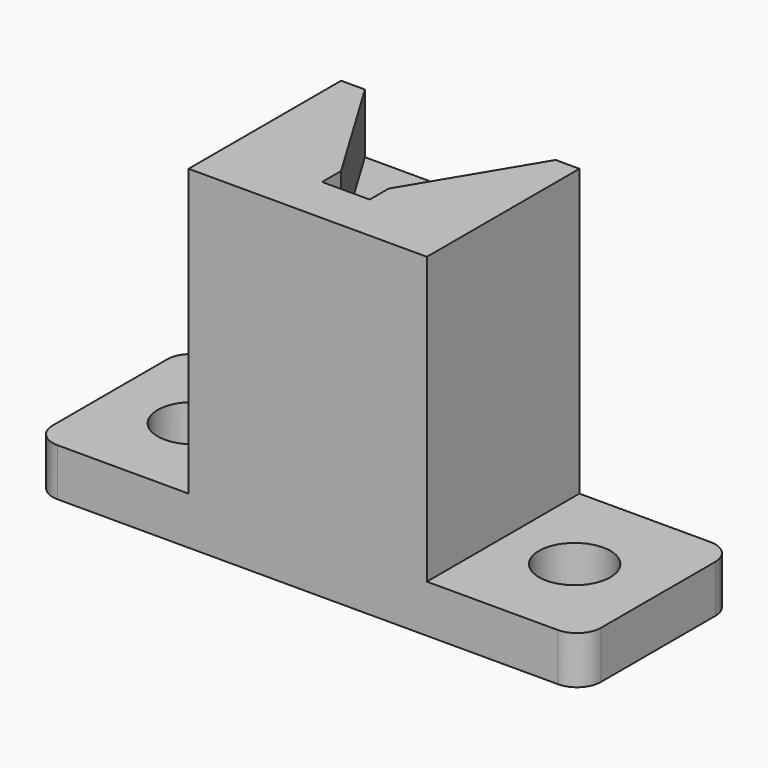
from build123d import *

# Parameters (mm, degrees)
F1_DEPTH  = 2
F3_DEPTH  = 25
F4_R      = 1.5
F5_DEPTH  = 25
F7_DEPTH  = 12
F8_W      = 3
F8_H      = 9
F9_DEPTH  = 8
F10_W     = 2
F10_H     = 2
F11_DEPTH = 4
F12_R     = 1


with BuildPart() as f1:
    # F0 (on Top) → F1 (new body)
    with BuildSketch(Plane.XY):
        Polygon((-11.5, 8), (-11.5, 0), (11.5, 0), (11.5, 8), (1, 8), (1, 2), (-1, 2), (-1, 8), align=None)
    extrude(amount=F1_DEPTH)

    # F2 (on face) → F3 (cut)
    with BuildSketch(Plane.XY.offset(2)):
        Polygon((-1, 8), (-4, 8), (-1, 3), align=None)
        Polygon((1, 8), (1, 3), (4, 8), align=None)
    extrude(amount=-F3_DEPTH, mode=Mode.SUBTRACT)

    # F4 (on face) → F5 (cut)
    with BuildSketch(Plane.XY.offset(2)):
        with Locations((-8, 4)):
            Circle(F4_R)
        with Locations((8, 4)):
            Circle(F4_R)
    extrude(amount=-F5_DEPTH, mode=Mode.SUBTRACT)

    # F6 (on face) → F7 (join)
    with BuildSketch(Plane.XY.offset(2)):
        Polygon((-4, 8), (-5, 8), (-5, 0), (5, 0), (5, 8), (4, 8), (1, 3), (1, 2), (-1, 2), (-1, 3), align=None)
    extrude(amount=F7_DEPTH)

    # F8 (on face) → F9 (join)
    with BuildSketch(Plane(origin=(0, 8, 0), x_dir=(-1, 0, 0), z_dir=(0, 1, 0))):
        with Locations((2.5, 7)):
            Rectangle(F8_W, F8_H)
        with Locations((-2.5, 7)):
            Rectangle(F8_W, F8_H)
    extrude(amount=-F9_DEPTH)

    # F10 (on face) → F11 (join)
    with BuildSketch(Plane(origin=(0, 2, 0), x_dir=(-1, 0, 0), z_dir=(0, 1, 0))):
        with Locations((0, 7)):
            Rectangle(F10_W, F10_H)
    extrude(amount=F11_DEPTH)

    # F12
    f12_edges = [f1.edges().sort_by_distance(p)[0] for p in [
        (11.5, 8, 1),
        (11.5, 0, 1),
        (-11.5, 0, 1),
        (-11.5, 8, 1),
    ]]
    fillet(f12_edges, radius=F12_R)


solid = f1.part
